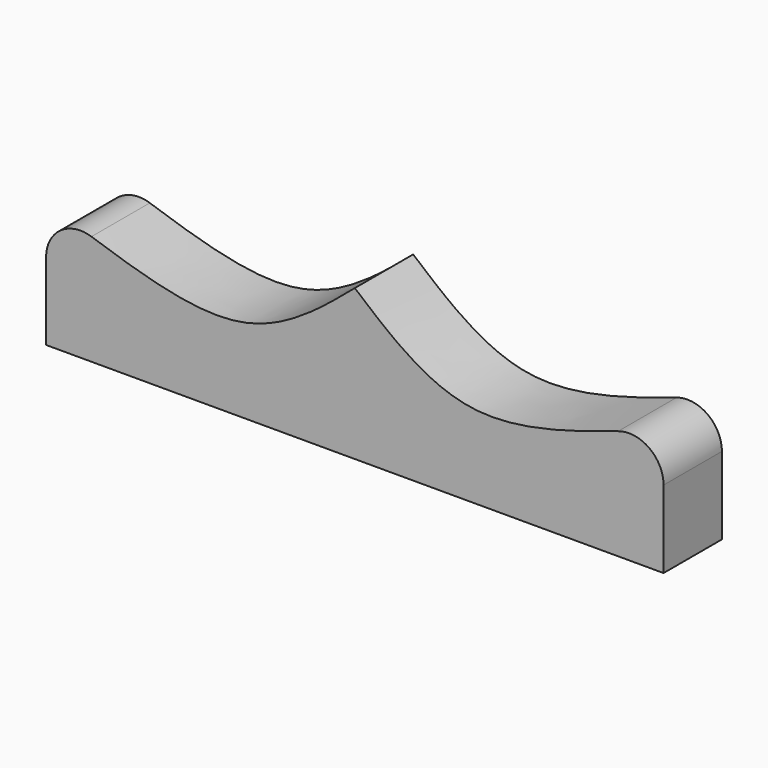
from build123d import *

# Parameters (mm, degrees)
F1_DEPTH = 19.2024


with BuildPart() as f1:
    # F0 (on Front) → F1 (new body)
    with BuildSketch(Plane.XZ):
        with BuildLine():
            Line((0, 39.624), (0, 0))
            Line((0, 0), (81.28, 0))
            Line((81.28, 0), (81.28, 20.4029402157))
            ThreePointArc((81.28, 20.4029402157), (77.5103661511, 27.7584562401), (69.3379938168, 28.993804681))
            add(Edge.make_bspline(
                [(69.3379938168, 28.993804681), (55.5223609657, 24.3607322036), (28.0850147811, 15.9537603379), (9.5183281909, 31.5445973666), (0, 39.624)],
                knots=[0.1210138518, 0.1210138518, 0.1210138518, 0.1210138518, 0.5448714545, 1, 1, 1, 1], degree=3))
        make_face()
        with BuildLine():
            Line((-81.28, 0), (0, 0))
            Line((0, 0), (0, 39.624))
            add(Edge.make_bspline(
                [(-69.3379938168, 28.993804681), (-55.5223609657, 24.3607322036), (-28.0850147811, 15.9537603379), (-9.5183281909, 31.5445973666), (0, 39.624)],
                knots=[0.1210138518, 0.1210138518, 0.1210138518, 0.1210138518, 0.5448714545, 1, 1, 1, 1], degree=3))
            ThreePointArc((-69.3379938168, 28.993804681), (-77.5103661511, 27.7584562401), (-81.28, 20.4029402157))
            Line((-81.28, 20.4029402157), (-81.28, 0))
        make_face()
    extrude(amount=F1_DEPTH)


solid = f1.part
